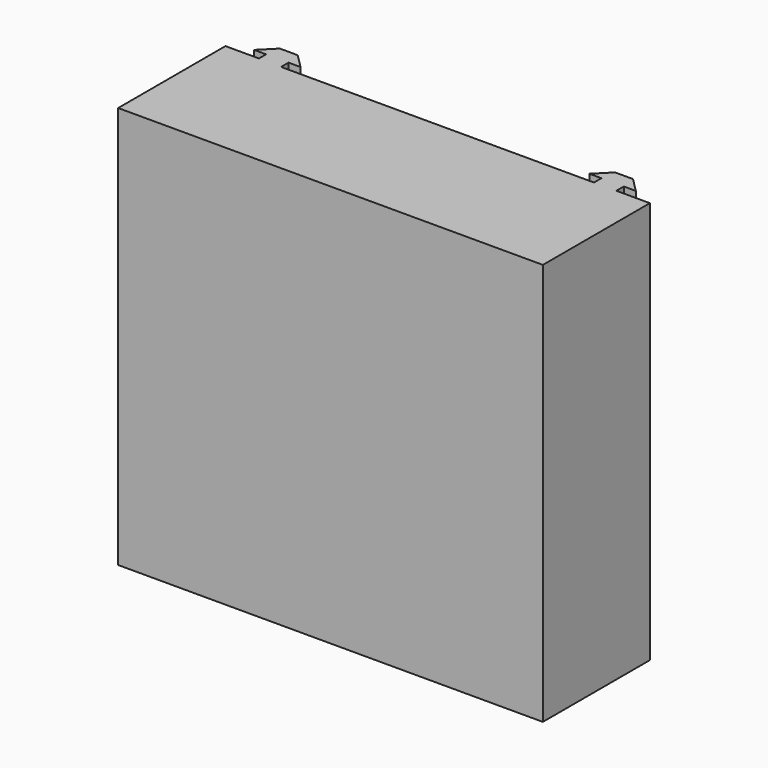
from build123d import *

# Parameters (mm, degrees)
PAD_DEPTH = 90


with BuildPart() as part:
    # Sketch003 → Pad (new body)
    with BuildSketch(Plane.XY.offset(100)):
        Polygon((7.5, 0), (0, 0), (0, -30), (95, -30), (95, -0.086413), (87.5, -0.086413), (87.5, 2), (90.2, 2), (87, 5.2), (83, 5.2), (79.8, 2), (82.5, 2), (82.5, -0.086413), (12.5, -0.086413), (12.5, 2), (15.2, 2), (12, 5.2), (8, 5.2), (4.8, 2), (7.5, 2), align=None)
    extrude(amount=PAD_DEPTH)


solid = part.part
